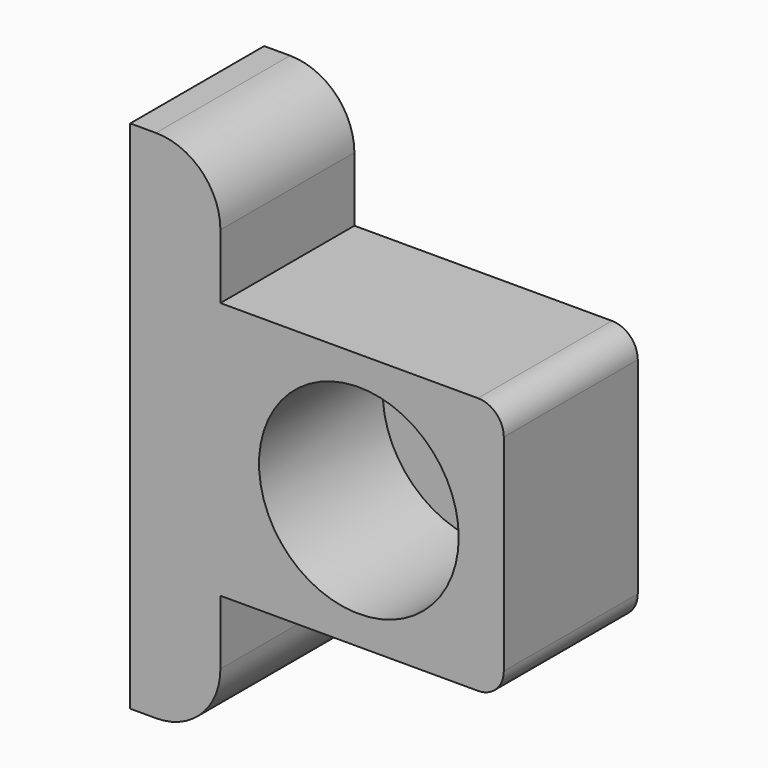
from build123d import *

# Parameters (mm, degrees)
F0_W     = 29
F0_H     = 13
F1_DEPTH = 20
F2_R     = 7.75
F3_DEPTH = 12
F5_DEPTH = 10
F6_W     = 7
F6_H     = 13
F7_DEPTH = 10
F8_R     = 5
F9_R     = 2


with BuildPart() as f1:
    # F0 (on Top) → F1 (new body)
    with BuildSketch(Plane.XY):
        with Locations((14.5, 6.5)):
            Rectangle(F0_W, F0_H)
    extrude(amount=F1_DEPTH)

    # F2 (on face) → F3 (cut)
    with BuildSketch(Plane.XZ):
        with Locations((17.75, 10)):
            Circle(F2_R)
    extrude(amount=-F3_DEPTH, mode=Mode.SUBTRACT)

    # F4 (on face) → F5 (join)
    with BuildSketch(Plane.XY.offset(20)):
        Polygon((2, 0), (7, 0), (7, 13), (0, 13), (0, 0), align=None)
        Polygon((2, 0), (7, 0), (7, 13), (0, 13), (0, 0), align=None)
    extrude(amount=F5_DEPTH)

    # F6 (on face) → F7 (join)
    with BuildSketch(Plane(origin=(0, 0, 0), x_dir=(1, 0, 0), z_dir=(0, 0, -1))):
        with Locations((3.5, -6.5)):
            Rectangle(F6_W, F6_H)
    extrude(amount=F7_DEPTH)

    # F8
    f8_edges = [f1.edges().sort_by_distance(p)[0] for p in [
        (7, 6.5, 30),
        (7, 6.5, -10),
    ]]
    fillet(f8_edges, radius=F8_R)

    # F9
    f9_edges = [f1.edges().sort_by_distance(p)[0] for p in [
        (29, 6.5, 20),
        (29, 6.5, 0),
    ]]
    fillet(f9_edges, radius=F9_R)


solid = f1.part
